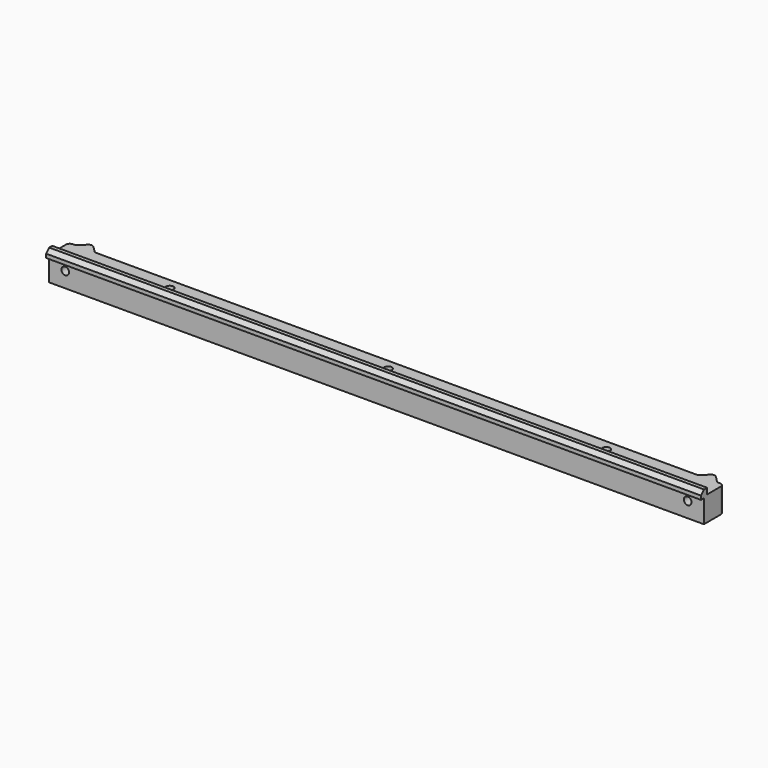
from build123d import *

# Parameters (mm, degrees)
F0_R     = 2
F1_DEPTH = 16
F2_SIZE  = 2
F3_W     = 349
F3_H     = 16
F4_DEPTH = 3.1
F5_W     = 345.2
F5_H     = 5
F6_DEPTH = 12
F7_R     = 2
F8_DEPTH = 17.272573


with BuildPart() as f1:
    # F0 (on Top) → F1 (new body)
    with BuildSketch(Plane.XY):
        with BuildLine():
            Line((-171.5, -127.73274), (-171.5, -131.223399))
            Line((-171.5, -131.223399), (171.5, -131.223399))
            Line((171.5, -131.223399), (171.5, -127.73274))
            Line((171.5, -127.73274), (171.5, -118.223399))
            ThreePointArc((171.5, -118.223399), (170.914214, -116.809185), (169.5, -116.223399))
            Line((169.5, -116.223399), (168.828427, -116.223399))
            ThreePointArc((168.828427, -116.223399), (168.06306, -116.071158), (167.414214, -115.637612))
            Line((167.414214, -115.637612), (164.414214, -112.637612))
            ThreePointArc((164.414214, -112.637612), (163, -112.051826), (161.585786, -112.637612))
            Line((161.585786, -112.637612), (158.585786, -115.637612))
            ThreePointArc((158.585786, -115.637612), (157.93694, -116.071158), (157.171573, -116.223399))
            Line((157.171573, -116.223399), (-154.5, -116.223399))
            Line((-154.5, -116.223399), (-157.171573, -116.223399))
            ThreePointArc((-157.171573, -116.223399), (-157.93694, -116.071158), (-158.585786, -115.637612))
            Line((-158.585786, -115.637612), (-161.585786, -112.637612))
            ThreePointArc((-161.585786, -112.637612), (-163, -112.051826), (-164.414214, -112.637612))
            Line((-164.414214, -112.637612), (-167.414214, -115.637612))
            ThreePointArc((-167.414214, -115.637612), (-168.06306, -116.071158), (-168.828427, -116.223399))
            Line((-168.828427, -116.223399), (-169.5, -116.223399))
            ThreePointArc((-169.5, -116.223399), (-170.914214, -116.809185), (-171.5, -118.223399))
            Line((-171.5, -118.223399), (-171.5, -127.73274))
        make_face()
        with Locations((-114.333, -121.723399)):
            Circle(F0_R, mode=Mode.SUBTRACT)
        with Locations((0, -121.723399)):
            Circle(F0_R, mode=Mode.SUBTRACT)
        with Locations((114.333, -121.723399)):
            Circle(F0_R, mode=Mode.SUBTRACT)
    extrude(amount=F1_DEPTH)

    # F2
    f2_edges = [f1.edges().sort_by_distance(p)[0] for p in [
        (0, -131.223399, 16),
    ]]
    chamfer(f2_edges, length=F2_SIZE)

    # F3 (on face) → F4 (cut)
    with BuildSketch(Plane.XY.offset(16)):
        with Locations((0, -119.223399)):
            Rectangle(F3_W, F3_H)
    extrude(amount=-F4_DEPTH, mode=Mode.SUBTRACT)

    # F5 (on face) → F6 (cut)
    with BuildSketch(Plane.XY):
        with Locations((0, -131.823399)):
            Rectangle(F5_W, F5_H)
    extrude(amount=F6_DEPTH, mode=Mode.SUBTRACT)

    # F7 (on face) → F8 (cut, through all)
    with BuildSketch(Plane.XZ.offset(129.323399)):
        with Locations((-163, 8)):
            Circle(F7_R)
        with Locations((163, 8)):
            Circle(F7_R)
    extrude(amount=-F8_DEPTH, mode=Mode.SUBTRACT)


solid = f1.part
